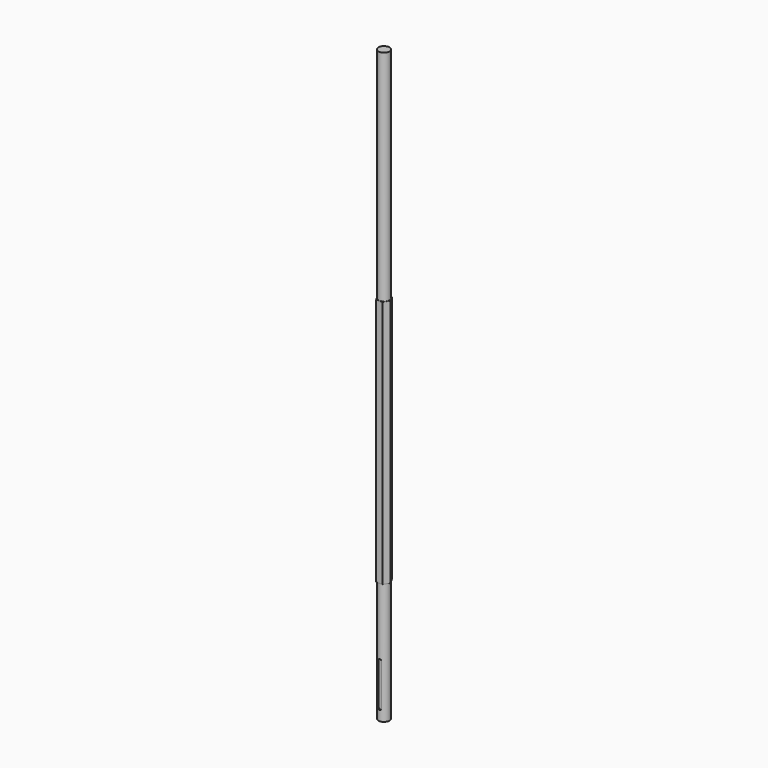
from build123d import *

# Parameters (mm, degrees)
F0_R      = 12.5
F1_DEPTH  = 462
F2_R      = 12.5
F3_DEPTH  = 25
F5_DEPTH  = 553
F6_R      = 12.5
F7_DEPTH  = 270
F10_DEPTH = 2.5
F12_D     = 6.8
F12_DEPTH = 20
F12_TIP   = 2.0429261047


with BuildPart() as f1:
    # F0 (on Top) → F1 (new body)
    with BuildSketch(Plane.XY):
        Circle(F0_R)
    extrude(amount=F1_DEPTH)

    # F2 (on face) → F3 (join)
    with BuildSketch(Plane.XY.offset(462)):
        Circle(F2_R)
    extrude(amount=F3_DEPTH)

    # F4 (on face) → F5 (join)
    with BuildSketch(Plane(origin=(0, 0, 0), x_dir=(1, 0, 0), z_dir=(0, 0, -1))):
        Polygon((14.4297718574, 0.3391422642), (6.9211801124, 12.6661201315), (-7.508591745, 12.3269778673), (-14.4297718574, -0.3391422642), (-6.9211801124, -12.6661201315), (7.508591745, -12.3269778673), align=None)
    extrude(amount=F5_DEPTH)

    # F6 (on face) → F7 (join)
    with BuildSketch(Plane(origin=(0, 0, -553), x_dir=(1, 0, 0), z_dir=(0, 0, -1))):
        Circle(F6_R)
    extrude(amount=F7_DEPTH)

    # F9 (on offset) → F10 (cut)
    with BuildSketch(Plane.XZ.offset(12.5)):
        with BuildLine():
            ThreePointArc((-3.81, -797.19), (0, -801), (3.81, -797.19))
            Line((3.81, -797.19), (3.81, -704.81))
            ThreePointArc((3.81, -704.81), (0, -701), (-3.81, -704.81))
            Line((-3.81, -704.81), (-3.81, -797.19))
        make_face()
    extrude(amount=-F10_DEPTH, mode=Mode.SUBTRACT)

    # F12
    with Locations(Plane(origin=(0, 0, -823), x_dir=(1, 0, 0), z_dir=(0, 0, -1))):
        with Locations((0, 0)):
            Hole(F12_D / 2, depth=F12_DEPTH)
            with Locations((0, 0, -(F12_DEPTH + F12_TIP / 2))):  # 118° drill point
                Cone(0, F12_D / 2, F12_TIP, mode=Mode.SUBTRACT)


solid = f1.part
